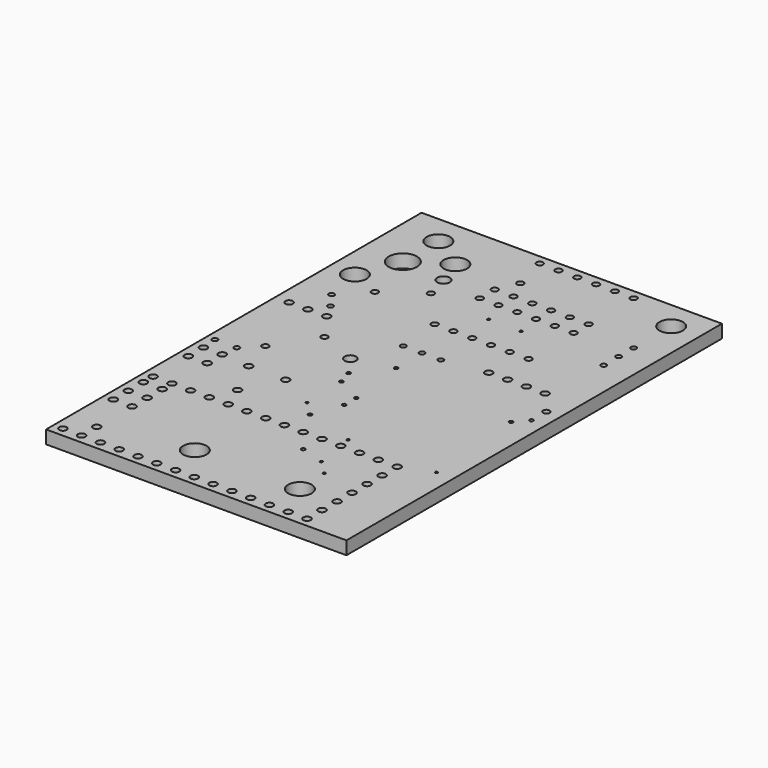
from build123d import *

# Parameters (mm, degrees)
MAINSKETCH_W    = 40.64
MAINSKETCH_H    = 63.5
MAIN_DEPTH      = 1.778
HOLESKETCH_R    = 1.585643
HOLESKETCH_R_2  = 1.908713
HOLESKETCH_R_3  = 0.252515
HOLESKETCH_R_4  = 0.256228
HOLESKETCH_R_5  = 0.445614
HOLESKETCH_R_6  = 0.508743
HOLESKETCH_R_7  = 1.589357
HOLESKETCH_R_8  = 0.512456
HOLESKETCH_R_9  = 0.505029
HOLESKETCH_R_10 = 0.367632
HOLESKETCH_R_11 = 0.441901
HOLESKETCH_R_12 = 0.178246
HOLESKETCH_R_13 = 0.371345
HOLESKETCH_R_14 = 0.776111
HOLESKETCH_R_15 = 0.854094
HOLES_DEPTH     = 3.556


with BuildPart() as part:
    # MainSketch → Main (new body)
    with BuildSketch(Plane.XY):
        with Locations((20.32, 31.75)):
            Rectangle(MAINSKETCH_W, MAINSKETCH_H)
    extrude(amount=MAIN_DEPTH)

    # HoleSketch → Holes (cut)
    with BuildSketch(Plane.XY):
        with Locations((5.466199, 59.511754)):
            Circle(HOLESKETCH_R)
        with Locations((5.458772, 53.510819)):
            Circle(HOLESKETCH_R_2)
        with Locations((10.16, 56.511287)):
            Circle(HOLESKETCH_R)
        with Locations((37.283041, 32.039649)):
            Circle(HOLESKETCH_R_3)
        with Locations((19.651579, 20.067485)):
            Circle(HOLESKETCH_R_3)
        with Locations((38.738713, 33.66614)):
            Circle(HOLESKETCH_R_4)
        with Locations((20.119474, 34.059766)):
            Circle(HOLESKETCH_R_4)
        with Locations((21.107251, 26.083275)):
            Circle(HOLESKETCH_R_3)
        with Locations((21.077544, 24.063158)):
            Circle(HOLESKETCH_R_3)
        with Locations((17.022456, 62.222573)):
            Circle(HOLESKETCH_R_5)
        with Locations((17.022456, 54.602573)):
            Circle(HOLESKETCH_R_5)
        with Locations((19.562456, 62.222573)):
            Circle(HOLESKETCH_R_5)
        with Locations((19.562456, 54.602573)):
            Circle(HOLESKETCH_R_5)
        with Locations((22.102456, 62.222573)):
            Circle(HOLESKETCH_R_5)
        with Locations((22.102456, 54.602573)):
            Circle(HOLESKETCH_R_5)
        with Locations((24.642456, 62.222573)):
            Circle(HOLESKETCH_R_5)
        with Locations((24.642456, 54.602573)):
            Circle(HOLESKETCH_R_5)
        with Locations((27.182456, 62.222573)):
            Circle(HOLESKETCH_R_5)
        with Locations((29.722456, 62.222573)):
            Circle(HOLESKETCH_R_5)
        with Locations((27.182456, 54.602573)):
            Circle(HOLESKETCH_R_5)
        with Locations((29.722456, 54.602573)):
            Circle(HOLESKETCH_R_5)
        with Locations((34.29, 1.262573)):
            Circle(HOLESKETCH_R_6)
        with Locations((31.75, 1.262573)):
            Circle(HOLESKETCH_R_6)
        with Locations((29.21, 1.262573)):
            Circle(HOLESKETCH_R_6)
        with Locations((34.29, 16.502573)):
            Circle(HOLESKETCH_R_6)
        with Locations((34.29, 3.802573)):
            Circle(HOLESKETCH_R_6)
        with Locations((34.29, 6.342573)):
            Circle(HOLESKETCH_R_6)
        with Locations((34.29, 8.882573)):
            Circle(HOLESKETCH_R_6)
        with Locations((34.29, 11.422573)):
            Circle(HOLESKETCH_R_6)
        with Locations((34.29, 13.962573)):
            Circle(HOLESKETCH_R_6)
        with Locations((26.67, 1.262573)):
            Circle(HOLESKETCH_R_6)
        with Locations((24.13, 1.262573)):
            Circle(HOLESKETCH_R_6)
        with Locations((21.59, 1.262573)):
            Circle(HOLESKETCH_R_6)
        with Locations((19.05, 1.262573)):
            Circle(HOLESKETCH_R_6)
        with Locations((16.51, 1.262573)):
            Circle(HOLESKETCH_R_6)
        with Locations((13.97, 1.262573)):
            Circle(HOLESKETCH_R_6)
        with Locations((11.43, 1.262573)):
            Circle(HOLESKETCH_R_6)
        with Locations((8.89, 1.262573)):
            Circle(HOLESKETCH_R_6)
        with Locations((6.35, 1.262573)):
            Circle(HOLESKETCH_R_6)
        with Locations((3.81, 1.262573)):
            Circle(HOLESKETCH_R_6)
        with Locations((1.27, 1.262573)):
            Circle(HOLESKETCH_R_6)
        with Locations((31.75, 16.502573)):
            Circle(HOLESKETCH_R_6)
        with Locations((29.21, 16.502573)):
            Circle(HOLESKETCH_R_6)
        with Locations((26.67, 16.502573)):
            Circle(HOLESKETCH_R_6)
        with Locations((24.13, 16.502573)):
            Circle(HOLESKETCH_R_6)
        with Locations((21.59, 16.502573)):
            Circle(HOLESKETCH_R_6)
        with Locations((19.05, 16.502573)):
            Circle(HOLESKETCH_R_6)
        with Locations((16.51, 16.502573)):
            Circle(HOLESKETCH_R_6)
        with Locations((13.97, 16.502573)):
            Circle(HOLESKETCH_R_6)
        with Locations((11.43, 16.502573)):
            Circle(HOLESKETCH_R_6)
        with Locations((8.89, 16.502573)):
            Circle(HOLESKETCH_R_6)
        with Locations((6.35, 16.502573)):
            Circle(HOLESKETCH_R_6)
        with Locations((3.81, 16.502573)):
            Circle(HOLESKETCH_R_6)
        with Locations((1.27, 16.502573)):
            Circle(HOLESKETCH_R_6)
        with Locations((3.81, 3.802573)):
            Circle(HOLESKETCH_R_6)
        with Locations((15.24, 6.104912)):
            Circle(HOLESKETCH_R_7)
        with Locations((36.83, 59.682573)):
            Circle(HOLESKETCH_R)
        with Locations((29.455088, 6.104912)):
            Circle(HOLESKETCH_R_7)
        with Locations((1.27, 12.321228)):
            Circle(HOLESKETCH_R_8)
        with Locations((1.27, 9.781228)):
            Circle(HOLESKETCH_R_8)
        with Locations((3.81, 9.781228)):
            Circle(HOLESKETCH_R_8)
        with Locations((1.27, 14.861228)):
            Circle(HOLESKETCH_R_8)
        with Locations((3.81, 12.321228)):
            Circle(HOLESKETCH_R_8)
        with Locations((3.81, 14.861228)):
            Circle(HOLESKETCH_R_8)
        with Locations((10.16, 19.681287)):
            Circle(HOLESKETCH_R_9)
        with Locations((7.664561, 24.679591)):
            Circle(HOLESKETCH_R_6)
        with Locations((12.662865, 24.679591)):
            Circle(HOLESKETCH_R_8)
        with Locations((1.27, 22.481228)):
            Circle(HOLESKETCH_R_8)
        with Locations((3.81, 22.481228)):
            Circle(HOLESKETCH_R_8)
        with Locations((1.27, 25.021228)):
            Circle(HOLESKETCH_R_8)
        with Locations((3.81, 25.021228)):
            Circle(HOLESKETCH_R_8)
        with Locations((1.901287, 38.731287)):
            Circle(HOLESKETCH_R_6)
        with Locations((6.981287, 38.731287)):
            Circle(HOLESKETCH_R_6)
        with Locations((4.441287, 38.731287)):
            Circle(HOLESKETCH_R_6)
        with Locations((3.342105, 48.052047)):
            Circle(HOLESKETCH_R_7)
        with Locations((36.83, 48.26)):
            Circle(HOLESKETCH_R_10)
        with Locations((36.83, 53.34)):
            Circle(HOLESKETCH_R_10)
        with Locations((36.83, 50.8)):
            Circle(HOLESKETCH_R_10)
        with Locations((17.549766, 38.471345)):
            Circle(HOLESKETCH_R_10)
        with Locations((22.629766, 38.471345)):
            Circle(HOLESKETCH_R_10)
        with Locations((20.089766, 38.471345)):
            Circle(HOLESKETCH_R_10)
        with Locations((36.035322, 39.362573)):
            Circle(HOLESKETCH_R_9)
        with Locations((33.495322, 39.362573)):
            Circle(HOLESKETCH_R_9)
        with Locations((30.955322, 39.362573)):
            Circle(HOLESKETCH_R_9)
        with Locations((28.415322, 39.362573)):
            Circle(HOLESKETCH_R_9)
        with Locations((17.527485, 28.043977)):
            Circle(HOLESKETCH_R_3)
        with Locations((38.738713, 36.191287)):
            Circle(HOLESKETCH_R_11)
        with Locations((17.022456, 52.062573)):
            Circle(HOLESKETCH_R_5)
        with Locations((17.022456, 44.442573)):
            Circle(HOLESKETCH_R_5)
        with Locations((19.562456, 52.062573)):
            Circle(HOLESKETCH_R_5)
        with Locations((19.562456, 44.442573)):
            Circle(HOLESKETCH_R_5)
        with Locations((22.102456, 52.062573)):
            Circle(HOLESKETCH_R_5)
        with Locations((22.102456, 44.442573)):
            Circle(HOLESKETCH_R_5)
        with Locations((24.642456, 52.062573)):
            Circle(HOLESKETCH_R_5)
        with Locations((24.642456, 44.442573)):
            Circle(HOLESKETCH_R_5)
        with Locations((27.182456, 52.062573)):
            Circle(HOLESKETCH_R_5)
        with Locations((29.722456, 52.062573)):
            Circle(HOLESKETCH_R_5)
        with Locations((27.182456, 44.442573)):
            Circle(HOLESKETCH_R_5)
        with Locations((29.722456, 44.442573)):
            Circle(HOLESKETCH_R_5)
        with Locations((26.395205, 18.077076)):
            Circle(HOLESKETCH_R_12)
        with Locations((38.352515, 18.077076)):
            Circle(HOLESKETCH_R_12)
        with Locations((17.690877, 22.028187)):
            Circle(HOLESKETCH_R_12)
        with Locations((27.301287, 12.417778)):
            Circle(HOLESKETCH_R_12)
        with Locations((29.217427, 10.516491)):
            Circle(HOLESKETCH_R_12)
        with Locations((1.091754, 27.182456)):
            Circle(HOLESKETCH_R_10)
        with Locations((4.055088, 27.182456)):
            Circle(HOLESKETCH_R_13)
        with Locations((14.987485, 32.730351)):
            Circle(HOLESKETCH_R_14)
        with Locations((11.43, 52.916667)):
            Circle(HOLESKETCH_R_15)
        with Locations((20.795322, 48.869006)):
            Circle(HOLESKETCH_R_12)
        with Locations((25.177193, 48.869006)):
            Circle(HOLESKETCH_R_12)
        with Locations((12.298947, 49.715673)):
            Circle(HOLESKETCH_R_5)
        with Locations((7.471462, 46.269591)):
            Circle(HOLESKETCH_R_5)
        with Locations((6.179181, 29.365965)):
            Circle(HOLESKETCH_R_5)
        with Locations((9.75152, 34.891579)):
            Circle(HOLESKETCH_R_11)
        with Locations((4.277895, 42.942339)):
            Circle(HOLESKETCH_R_13)
        with Locations((5.844971, 40.803392)):
            Circle(HOLESKETCH_R_10)
        with Locations((18.233041, 57.409942)):
            Circle(HOLESKETCH_R_11)
        with Locations((16.903626, 30.019532)):
            Circle(HOLESKETCH_R_3)
        with Locations((24.048304, 13.44269)):
            Circle(HOLESKETCH_R_3)
    extrude(amount=HOLES_DEPTH, mode=Mode.SUBTRACT)


solid = part.part
